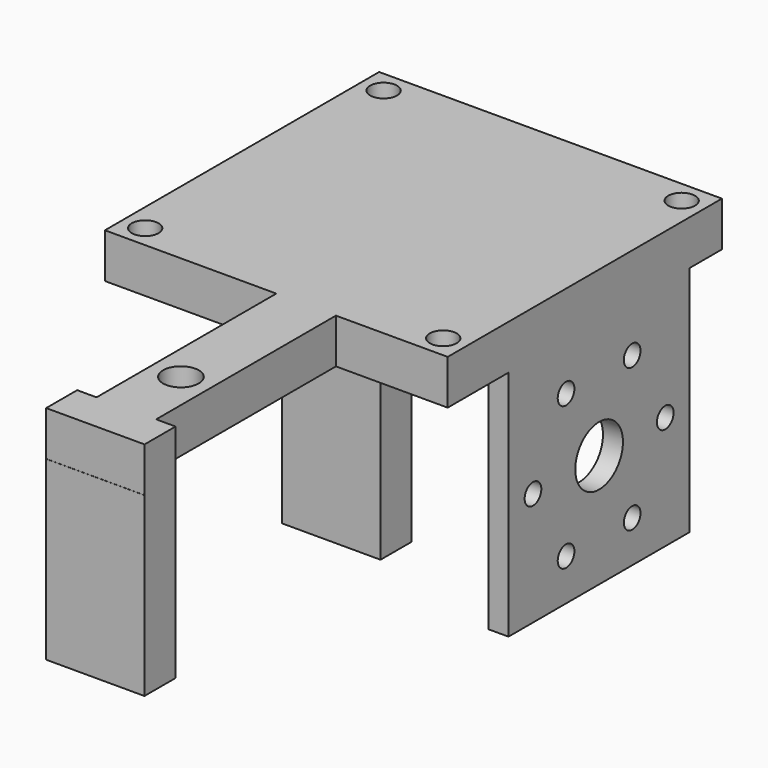
from build123d import *

# Parameters (mm, degrees)
SKETCH014_R             = 3
SKETCH014_R_2           = 2.25
PAD007_DEPTH            = 7.5
SKETCH015_W             = 16.5
SKETCH015_H             = 6.5
SKETCH015_R             = 2.25
PAD008_DEPTH            = 29.65
PAD010_DEPTH            = 39
SKETCH017_R             = 5
SKETCH017_R_2           = 1.75
POCKET_DEPTH            = 5
BODY002_PLACEMENT_ANGLE = 180


with BuildPart() as part:
    # Sketch014 → Pad007 (new body)
    with BuildSketch(Plane.XY):
        Polygon((0, -28.75), (0, -55), (0, -66.44), (3.25, -66.44), (3.25, -72.94), (-13.25, -72.94), (-13.25, -66.44), (-10, -66.44), (-10, -55), (-10, -28.75), (-28.75, -28.75), (-28.75, 28.75), (28.75, 28.75), (28.75, -28.75), align=None)
        with Locations((-5, -55)):
            Circle(SKETCH014_R, mode=Mode.SUBTRACT)
        with Locations((-25, -25)):
            Circle(SKETCH014_R_2, mode=Mode.SUBTRACT)
        with Locations((25, 25)):
            Circle(SKETCH014_R_2, mode=Mode.SUBTRACT)
        with Locations((25, -25)):
            Circle(SKETCH014_R_2, mode=Mode.SUBTRACT)
        with Locations((-25, 25)):
            Circle(SKETCH014_R_2, mode=Mode.SUBTRACT)
    extrude(amount=PAD007_DEPTH)

    # Sketch015 (on Face21 of Pad007) → Pad008 (join)
    with BuildSketch(Plane.XY.offset(7.5)):
        with Locations((-5, -20.21)):
            Rectangle(SKETCH015_W, SKETCH015_H)
        with Locations((-10, -20.21)):
            Circle(SKETCH015_R, mode=Mode.SUBTRACT)
        with Locations((0, -20.21)):
            Circle(SKETCH015_R, mode=Mode.SUBTRACT)
        with Locations((-5, -69.71)):
            Rectangle(SKETCH015_W, SKETCH015_H)
        with Locations((0, -69.71)):
            Circle(SKETCH015_R, mode=Mode.SUBTRACT)
        with Locations((-10, -69.71)):
            Circle(SKETCH015_R, mode=Mode.SUBTRACT)
    extrude(amount=PAD008_DEPTH)

    # Sketch016 (on Face5 of Pad008) → Pad010 (join)
    with BuildSketch(Plane.XY.offset(7.5)):
        Polygon((-25.4, 3), (-25.4, 22), (-28.75, 22), (-28.75, -16), (-25.4, -16), align=None)
    extrude(amount=PAD010_DEPTH)

    # Sketch017 (on Face7 of Pad010) → Pocket (cut)
    with BuildSketch(Plane(origin=(-28.75, 0, 0), x_dir=(0, -1, 0), z_dir=(-1, 0, 0))):
        with Locations((-3, 27.5)):
            Circle(SKETCH017_R)
        with Locations((3.93, 39.5)):
            Circle(SKETCH017_R_2)
        with Locations((-9.93, 39.5)):
            Circle(SKETCH017_R_2)
        with Locations((-9.93, 15.5)):
            Circle(SKETCH017_R_2)
        with Locations((3.93, 15.5)):
            Circle(SKETCH017_R_2)
        with Locations((-16.865388, 27.5)):
            Circle(SKETCH017_R_2)
        with Locations((10.865388, 27.5)):
            Circle(SKETCH017_R_2)
    extrude(amount=-POCKET_DEPTH, mode=Mode.SUBTRACT)


with BuildPart() as part_1:
    # Body002 placement: moved
    add(part.part.rotate(Axis((0, 0, 0), (0, 1, 0)), BODY002_PLACEMENT_ANGLE))


solid = part_1.part
